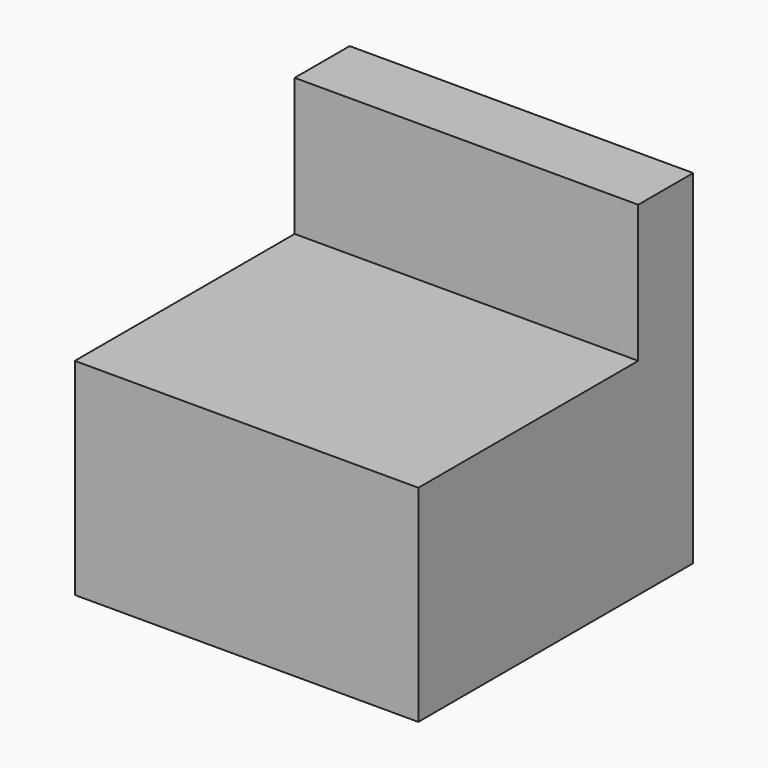
from build123d import *

# Parameters (mm, degrees)
F0_W     = 100
F0_H     = 100
F1_DEPTH = 100
F2_W     = 100
F2_H     = 80
F3_DEPTH = 40
F4_W     = 60
F4_H     = 40
F5_DEPTH = 50.001


with BuildPart() as f1:
    # F0 (on Top) → F1 (new body)
    with BuildSketch(Plane.XY):
        Rectangle(F0_W, F0_H)
    extrude(amount=F1_DEPTH)

    # F2 (on face) → F3 (cut)
    with BuildSketch(Plane.XY.offset(100)):
        with Locations((0, -10)):
            Rectangle(F2_W, F2_H)
    extrude(amount=-F3_DEPTH, mode=Mode.SUBTRACT)

    # F4 (on Front) → F5 (cut, through all)
    with BuildSketch(Plane.XZ):
        with Locations((-21.424717, 0)):
            Rectangle(F4_W, F4_H)
    extrude(amount=-F5_DEPTH, mode=Mode.SUBTRACT)


solid = f1.part
